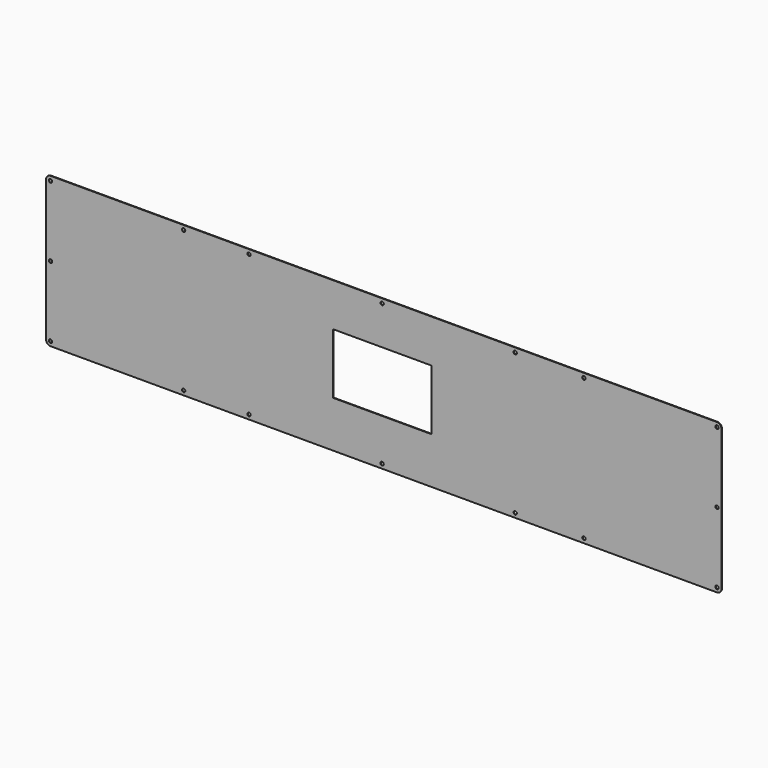
from build123d import *

# Parameters (mm, degrees)
F0_W     = 752.983
F0_H     = 151.4094
F0_W_2   = 112.649
F0_H_2   = 69.1896
F1_DEPTH = 0.7239
F2_DEPTH = 10.16
F3_DEPTH = 10.16
F4_DEPTH = 10.16
F5_DEPTH = 10.16
F6_R     = 1.905
F7_DEPTH = 0.7249
F8_R     = 5.08


with BuildPart() as f1:
    # F0 (on Front) → F1 (new body)
    with BuildSketch(Plane.XZ):
        Rectangle(F0_W, F0_H)
        with Locations((-1.8796, 1.9177)):
            Rectangle(F0_W_2, F0_H_2, mode=Mode.SUBTRACT)
    extrude(amount=F1_DEPTH)

    # F2 (add): a face of the model
    f2_faces = [f1.faces().sort_by_distance(p)[0] for p in [
        (0, -0.36195, 75.7047),
    ]]
    extrude(f2_faces, amount=F2_DEPTH)

    # F3 (add): a face of the model
    f3_faces = [f1.faces().sort_by_distance(p)[0] for p in [
        (0, -0.36195, -75.7047),
    ]]
    extrude(f3_faces, amount=F3_DEPTH)

    # F4 (add): a face of the model
    f4_faces = [f1.faces().sort_by_distance(p)[0] for p in [
        (376.4915, -0.36195, 0),
    ]]
    extrude(f4_faces, amount=F4_DEPTH)

    # F5 (add): a face of the model
    f5_faces = [f1.faces().sort_by_distance(p)[0] for p in [
        (-376.4915, -0.36195, 0),
    ]]
    extrude(f5_faces, amount=F5_DEPTH)

    # F6 (on face) → F7 (cut, through all)
    with BuildSketch(Plane(origin=(0, 0, 0), x_dir=(-1, 0, 0), z_dir=(0, 1, 0))):
        with Locations((-381.5715, 80.7847)):
            Circle(F6_R)
        with Locations((1.8796, 80.7847)):
            Circle(F6_R)
        with Locations((381.5715, 80.7847)):
            Circle(F6_R)
        with Locations((-381.5715, -80.7847)):
            Circle(F6_R)
        with Locations((1.8796, -80.7847)):
            Circle(F6_R)
        with Locations((381.5715, -80.7847)):
            Circle(F6_R)
        with Locations((154.2796, 80.7847)):
            Circle(F6_R)
        with Locations((229.1715, 80.7847)):
            Circle(F6_R)
        with Locations((-150.5204, 80.7847)):
            Circle(F6_R)
        with Locations((-229.1715, 80.7847)):
            Circle(F6_R)
        with Locations((-381.5715, 0)):
            Circle(F6_R)
        with Locations((381.5715, 0)):
            Circle(F6_R)
        with Locations((-229.1715, -80.7847)):
            Circle(F6_R)
        with Locations((-150.5204, -80.7847)):
            Circle(F6_R)
        with Locations((154.2796, -80.7847)):
            Circle(F6_R)
        with Locations((229.1715, -80.7847)):
            Circle(F6_R)
    extrude(amount=-F7_DEPTH, mode=Mode.SUBTRACT)

    # F8
    f8_edges = [f1.edges().sort_by_distance(p)[0] for p in [
        (386.6515, -0.36195, 85.8647),
        (386.6515, -0.36195, -85.8647),
        (-386.6515, -0.36195, -85.8647),
        (-386.6515, -0.36195, 85.8647),
    ]]
    fillet(f8_edges, radius=F8_R)


solid = f1.part
